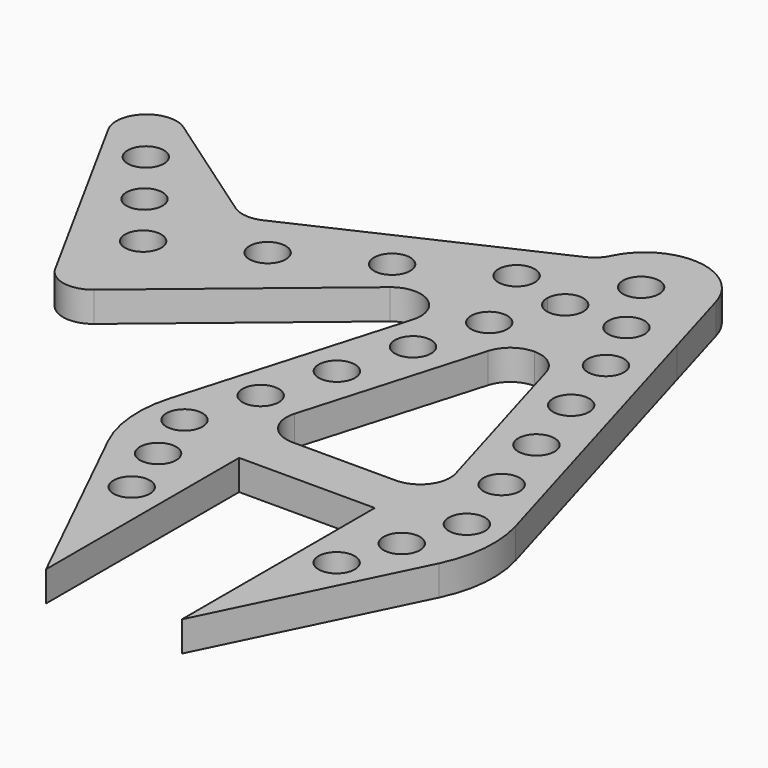
from build123d import *

# Parameters (mm, degrees)
F0_R     = 3.817415
F1_DEPTH = 6.35


with BuildPart() as f1:
    # F0 (on Top) → F1 (new body)
    with BuildSketch(Plane.XY):
        with BuildLine():
            Line((0, 0), (14.2875, 0))
            Line((14.2875, 0), (14.2875, -50.8))
            Line((14.2875, -50.8), (34.83097, -8.835519))
            ThreePointArc((34.83097, -8.835519), (37.324611, 0.157433), (36.40205, 9.444))
            Line((36.40205, 9.444), (16.932984, 76.2))
            Line((16.932984, 76.2), (12.19207, 92.455759))
            ThreePointArc((12.19207, 92.455759), (1.041749, 101.557202), (-11.446628, 94.401338))
            ThreePointArc((-11.446628, 94.401338), (-12.715004, 92.626962), (-14.508967, 91.386444))
            Line((-14.508967, 91.386444), (-64.0115, 68.539593))
            ThreePointArc((-64.0115, 68.539593), (-67.225476, 67.979281), (-70.29348, 69.088757))
            Line((-70.29348, 69.088757), (-95.005723, 86.24296))
            ThreePointArc((-95.005723, 86.24296), (-102.872899, 85.748058), (-104.196682, 77.97728))
            Line((-104.196682, 77.97728), (-79.946343, 33.680525))
            ThreePointArc((-79.946343, 33.680525), (-75.565199, 30.49208), (-70.31843, 31.845601))
            Line((-70.31843, 31.845601), (-32.898532, 62.935293))
            ThreePointArc((-32.898532, 62.935293), (-25.357143, 63.360346), (-22.744537, 56.273208))
            Line((-22.744537, 56.273208), (-36.40205, 9.444))
            ThreePointArc((-36.40205, 9.444), (-37.324611, 0.157433), (-34.83097, -8.835519))
            Line((-34.83097, -8.835519), (-14.2875, -50.8))
            Line((-14.2875, -50.8), (-14.2875, 0))
            Line((-14.2875, 0), (0, 0))
        make_face()
        with Locations((-21.575166, -19.147553)):
            Circle(F0_R, mode=Mode.SUBTRACT)
        with Locations((21.575166, -19.147553)):
            Circle(F0_R, mode=Mode.SUBTRACT)
        with Locations((-25.654, -7.112)):
            Circle(F0_R, mode=Mode.SUBTRACT)
        with Locations((-29.732834, 4.923553)):
            Circle(F0_R, mode=Mode.SUBTRACT)
        with Locations((-25.371749, 19.526243)):
            Circle(F0_R, mode=Mode.SUBTRACT)
        with Locations((25.654, -7.112)):
            Circle(F0_R, mode=Mode.SUBTRACT)
        with Locations((29.732834, 4.923553)):
            Circle(F0_R, mode=Mode.SUBTRACT)
        with Locations((25.371749, 19.526243)):
            Circle(F0_R, mode=Mode.SUBTRACT)
        with Locations((-74.815793, 50.398776)):
            Circle(F0_R, mode=Mode.SUBTRACT)
        with Locations((-84.001267, 62.239691)):
            Circle(F0_R, mode=Mode.SUBTRACT)
        with Locations((-56.264257, 59.978171)):
            Circle(F0_R, mode=Mode.SUBTRACT)
        with Locations((-93.186742, 74.080605)):
            Circle(F0_R, mode=Mode.SUBTRACT)
        with Locations((-37.712721, 69.557566)):
            Circle(F0_R, mode=Mode.SUBTRACT)
        with Locations((-21.010664, 34.128932)):
            Circle(F0_R, mode=Mode.SUBTRACT)
        with BuildLine():
            Line((10.896643, 9.807219), (0, 9.807219))
            Line((0, 9.807219), (-10.896643, 9.807219))
            ThreePointArc((-10.896643, 9.807219), (-15.976605, 12.347169), (-16.992678, 17.935098))
            Line((-16.992678, 17.935098), (-6.096035, 55.297769))
            ThreePointArc((-6.096035, 55.297769), (-3.81005, 58.599852), (0, 59.869889))
            ThreePointArc((0, 59.869889), (3.81005, 58.599852), (6.096035, 55.297769))
            Line((6.096035, 55.297769), (16.992678, 17.935098))
            ThreePointArc((16.992678, 17.935098), (15.976605, 12.347169), (10.896643, 9.807219))
        make_face(mode=Mode.SUBTRACT)
        with Locations((-16.64958, 48.731622)):
            Circle(F0_R, mode=Mode.SUBTRACT)
        with Locations((-12.288495, 63.334311)):
            Circle(F0_R, mode=Mode.SUBTRACT)
        with Locations((21.010664, 34.128932)):
            Circle(F0_R, mode=Mode.SUBTRACT)
        with Locations((16.64958, 48.731622)):
            Circle(F0_R, mode=Mode.SUBTRACT)
        with Locations((12.288495, 63.334311)):
            Circle(F0_R, mode=Mode.SUBTRACT)
        with BuildLine():
            ThreePointArc((-15.34377, 79.13696), (-15.705615, 77.51471), (-16.722554, 76.2))
            ThreePointArc((-16.722554, 76.2), (-19.161185, 75.319545), (-21.599816, 76.2))
            ThreePointArc((-21.599816, 76.2), (-20.783435, 82.59253), (-15.34377, 79.13696))
        make_face(mode=Mode.SUBTRACT)
        with BuildLine():
            ThreePointArc((-2.631657, 76.025333), (-6.536428, 72.208918), (-10.262489, 76.2))
            ThreePointArc((-10.262489, 76.2), (-6.361715, 79.841748), (-2.631657, 76.025333))
        make_face(mode=Mode.SUBTRACT)
        with Locations((-0.609649, 88.716355)):
            Circle(F0_R, mode=Mode.SUBTRACT)
        with BuildLine():
            ThreePointArc((10.266487, 76.025333), (2.632656, 75.937977), (10.262489, 76.2))
            ThreePointArc((10.262489, 76.2), (10.265487, 76.112689), (10.266487, 76.025333))
        make_face(mode=Mode.SUBTRACT)
    extrude(amount=F1_DEPTH)


solid = f1.part
